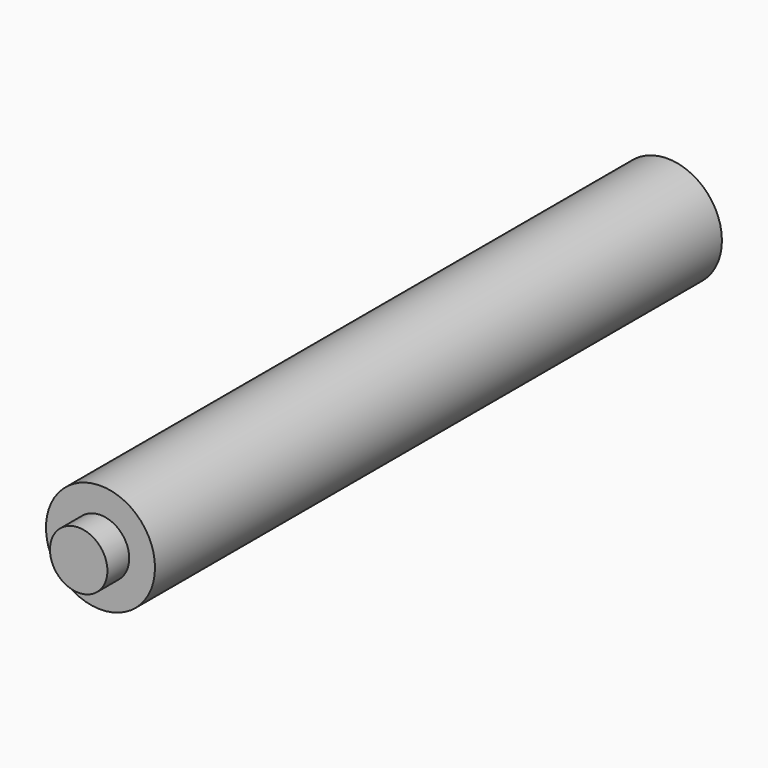
from build123d import *

# Parameters (mm, degrees)
F0_R          = 5
F1_DEPTH      = 65
F2_R          = 2.635913
F3_DEPTH      = 2.5
F3_DEPTH_BACK = 67.2


with BuildPart() as f1:
    # F0 (on Front) → F1 (new body)
    with BuildSketch(Plane.XZ):
        Circle(F0_R)
    extrude(amount=F1_DEPTH)

    # F2 (on face) → F3 (join, two sides)
    with BuildSketch(Plane.XZ.offset(65)) as f3_sk:
        Circle(F2_R)
    extrude(amount=F3_DEPTH)
    extrude(f3_sk.sketch, amount=-F3_DEPTH_BACK)


solid = f1.part
